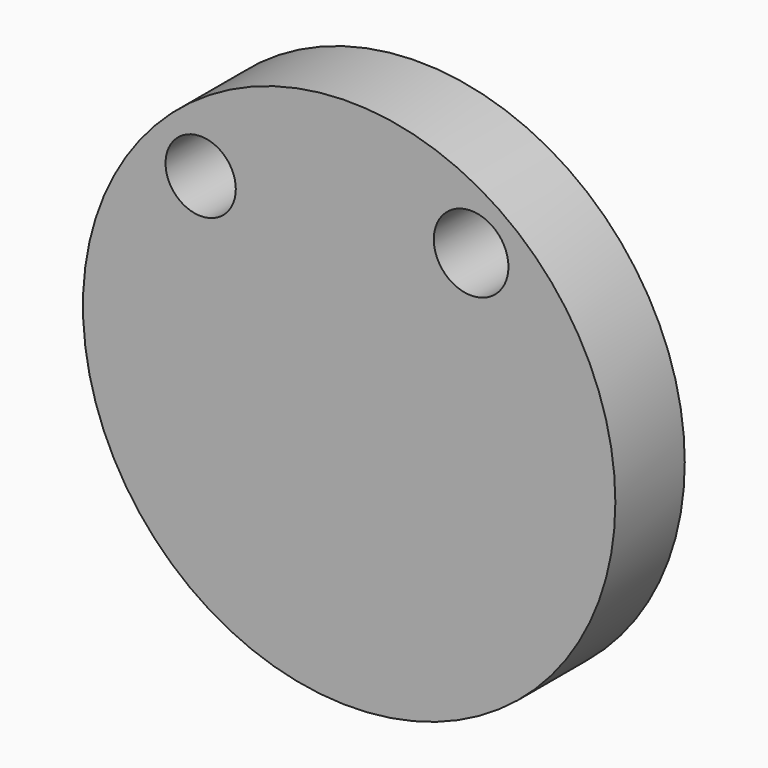
from build123d import *

# Parameters (mm, degrees)
F0_R     = 61.506542
F0_R_2   = 22.799489
F0_R_3   = 8.118645
F0_R_4   = 8.627818
F1_DEPTH = 20.05


with BuildPart() as f1:
    # F0 (on Front) → F1 (new body)
    with BuildSketch(Plane.XZ):
        Circle(F0_R)
        with Locations((0, -24.966624)):
            Circle(F0_R_2, mode=Mode.SUBTRACT)
        with Locations((-34.310859, 35.186879)):
            Circle(F0_R_3, mode=Mode.SUBTRACT)
        with Locations((28.178707, 39.858997)):
            Circle(F0_R_4, mode=Mode.SUBTRACT)
        with Locations((0, -24.966624)):
            Circle(F0_R_2)
    extrude(amount=F1_DEPTH)


solid = f1.part
